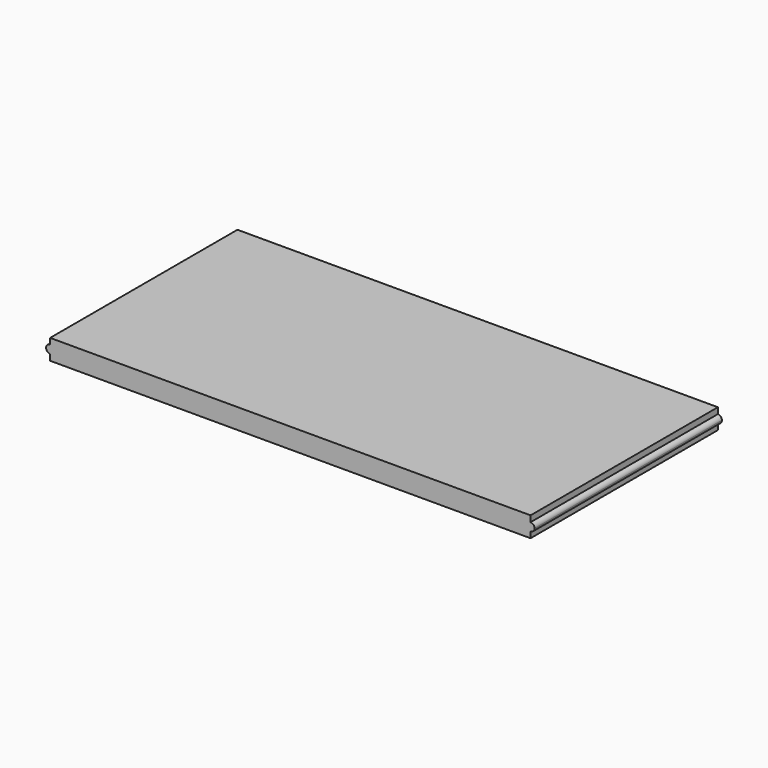
from build123d import *

# Parameters (mm, degrees)
F0_W     = 121
F0_H     = 58
F1_DEPTH = 5
F3_DEPTH = 58.001


with BuildPart() as f1:
    # F0 (on Top) → F1 (new body)
    with BuildSketch(Plane.XY):
        Rectangle(F0_W, F0_H)
    extrude(amount=F1_DEPTH)

    # F2 (on face) → F3 (cut, through all)
    with BuildSketch(Plane.XZ.offset(29)):
        with BuildLine():
            Line((-59.5, 3.5), (-59.5, 5))
            Line((-59.5, 5), (-60.5, 5))
            Line((-60.5, 5), (-60.5, 2.5))
            ThreePointArc((-60.5, 2.5), (-60.207107, 3.207107), (-59.5, 3.5))
        make_face()
        with BuildLine():
            Line((-60.5, 0), (-59.5, 0))
            Line((-59.5, 0), (-59.5, 1.5))
            ThreePointArc((-59.5, 1.5), (-60.207107, 1.792893), (-60.5, 2.5))
            Line((-60.5, 2.5), (-60.5, 0))
        make_face()
        with BuildLine():
            Line((60.5, 0), (60.5, 2.5))
            ThreePointArc((60.5, 2.5), (60.207107, 1.792893), (59.5, 1.5))
            Line((59.5, 1.5), (59.5, 0))
            Line((59.5, 0), (60.5, 0))
        make_face()
        with BuildLine():
            ThreePointArc((59.5, 3.5), (60.207107, 3.207107), (60.5, 2.5))
            Line((60.5, 2.5), (60.5, 5))
            Line((60.5, 5), (59.5, 5))
            Line((59.5, 5), (59.5, 3.5))
        make_face()
    extrude(amount=-F3_DEPTH, mode=Mode.SUBTRACT)


solid = f1.part
